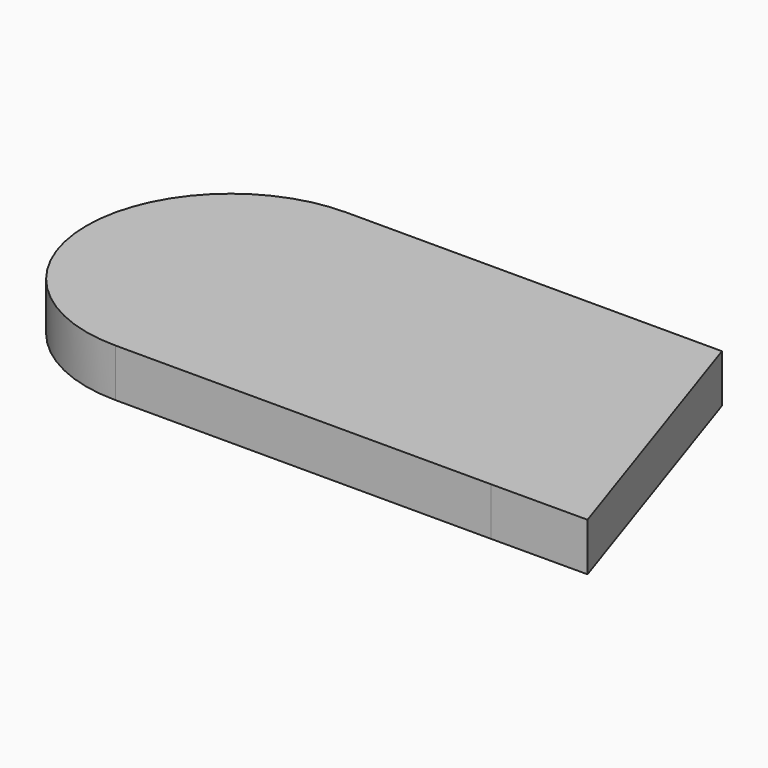
from build123d import *

# Parameters (mm, degrees)
F0_W     = 78.2
F0_H     = 60
F1_DEPTH = 10


with BuildPart() as f1:
    # F0 (on Top) → F1 (new body)
    with BuildSketch(Plane.XY):
        Polygon((59.099942, -29.952), (39.1, 30), (39.1, -30), align=None)
        Rectangle(F0_W, F0_H)
        with BuildLine():
            Line((-39.1, -30), (-39.1, 30))
            ThreePointArc((-39.1, 30), (-69.1, 0), (-39.1, -30))
        make_face()
    extrude(amount=F1_DEPTH)


solid = f1.part
